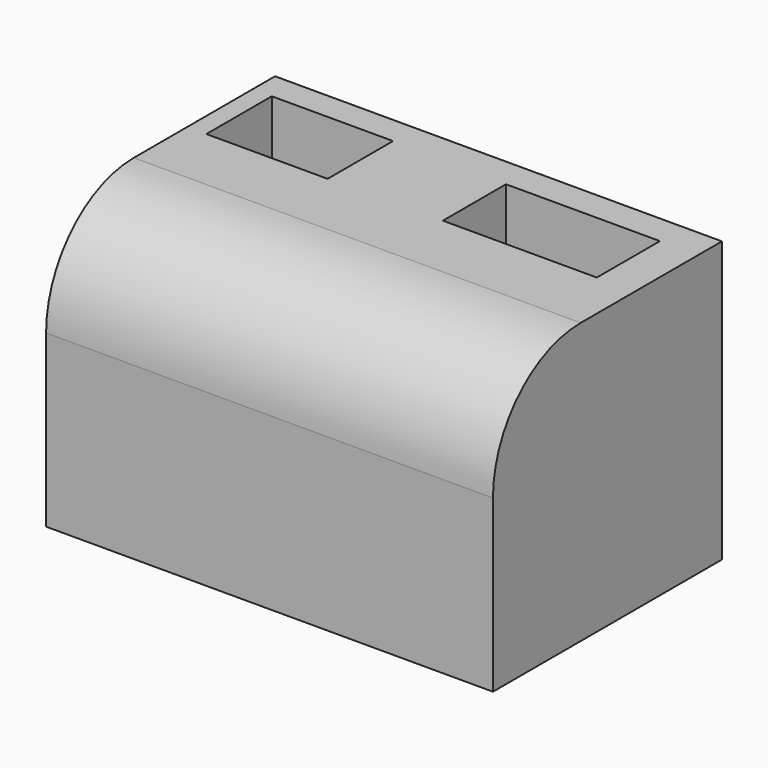
from build123d import *

# Parameters (mm, degrees)
F0_W     = 132.481672
F0_H     = 84.847815
F1_DEPTH = 83.058
F2_W     = 35.940319
F2_H     = 24.245456
F4_DEPTH = 80.772
F3_W     = 45.638506
F3_H     = 23.389732
F5_DEPTH = 82.296
F6_R     = 32.500143


with BuildPart() as f1:
    # F0 (on Top) → F1 (new body)
    with BuildSketch(Plane.XY):
        with Locations((3.225211, -2.604976)):
            Rectangle(F0_W, F0_H)
    extrude(amount=F1_DEPTH)

    # F2 (on face) → F4 (cut)
    with BuildSketch(Plane.XY.offset(83.058)):
        with Locations((-39.363209, 19.396365)):
            Rectangle(F2_W, F2_H)
    extrude(amount=-F4_DEPTH, mode=Mode.SUBTRACT)

    # F3 (on face) → F5 (cut)
    with BuildSketch(Plane.XY.offset(83.058)):
        with Locations((35.369841, 19.253743)):
            Rectangle(F3_W, F3_H)
    extrude(amount=-F5_DEPTH, mode=Mode.SUBTRACT)

    # F6
    f6_edges = [f1.edges().sort_by_distance(p)[0] for p in [
        (3.225211, -45.028884, 83.058),
    ]]
    fillet(f6_edges, radius=F6_R)


solid = f1.part
